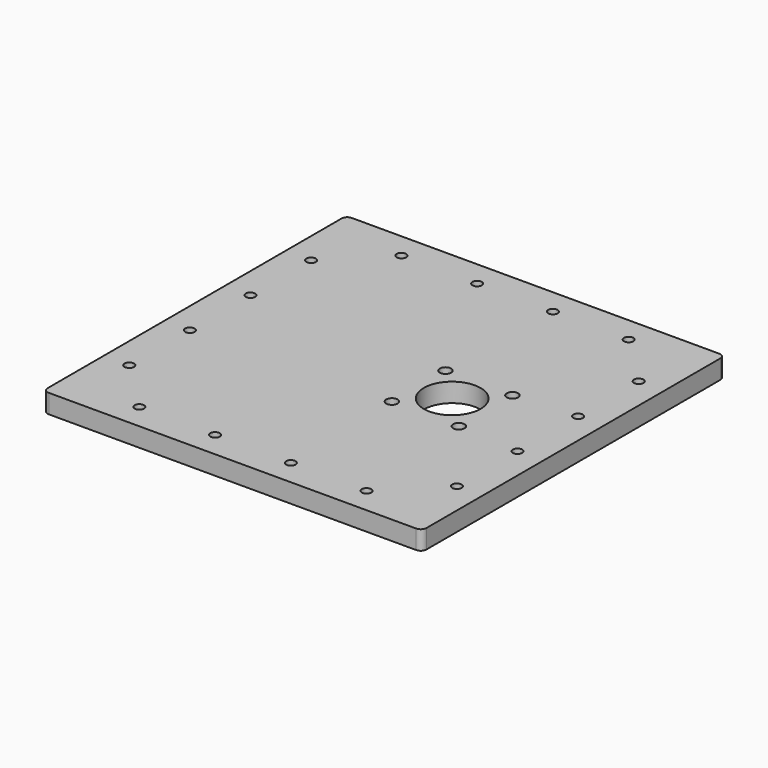
from build123d import *

# Parameters (mm, degrees)
SKETCH_W   = 200
SKETCH_H   = 200
SKETCH_R   = 15
SKETCH_R_2 = 3
SKETCH_R_3 = 2.5
PAD_DEPTH  = 10
FILLET_R   = 3


with BuildPart() as part:
    # Sketch → Pad (new body)
    with BuildSketch(Plane.XY):
        with Locations((100, 100)):
            Rectangle(SKETCH_W, SKETCH_H)
        with Locations((136, 100)):
            Circle(SKETCH_R, mode=Mode.SUBTRACT)
        with Locations((118.32233, 117.67767)):
            Circle(SKETCH_R_2, mode=Mode.SUBTRACT)
        with Locations((153.67767, 117.67767)):
            Circle(SKETCH_R_2, mode=Mode.SUBTRACT)
        with Locations((118.32233, 82.32233)):
            Circle(SKETCH_R_2, mode=Mode.SUBTRACT)
        with Locations((153.67767, 82.32233)):
            Circle(SKETCH_R_2, mode=Mode.SUBTRACT)
        with Locations((40, 13.5)):
            Circle(SKETCH_R_3, mode=Mode.SUBTRACT)
        with Locations((160, 13.5)):
            Circle(SKETCH_R_3, mode=Mode.SUBTRACT)
        with Locations((80, 13.5)):
            Circle(SKETCH_R_3, mode=Mode.SUBTRACT)
        with Locations((120, 13.5)):
            Circle(SKETCH_R_3, mode=Mode.SUBTRACT)
        with Locations((40, 186.5)):
            Circle(SKETCH_R_3, mode=Mode.SUBTRACT)
        with Locations((80, 186.5)):
            Circle(SKETCH_R_3, mode=Mode.SUBTRACT)
        with Locations((120, 186.5)):
            Circle(SKETCH_R_3, mode=Mode.SUBTRACT)
        with Locations((160, 186.5)):
            Circle(SKETCH_R_3, mode=Mode.SUBTRACT)
        with Locations((13.5, 160)):
            Circle(SKETCH_R_3, mode=Mode.SUBTRACT)
        with Locations((13.5, 120)):
            Circle(SKETCH_R_3, mode=Mode.SUBTRACT)
        with Locations((13.5, 80)):
            Circle(SKETCH_R_3, mode=Mode.SUBTRACT)
        with Locations((13.5, 40)):
            Circle(SKETCH_R_3, mode=Mode.SUBTRACT)
        with Locations((186.5, 160)):
            Circle(SKETCH_R_3, mode=Mode.SUBTRACT)
        with Locations((186.5, 120)):
            Circle(SKETCH_R_3, mode=Mode.SUBTRACT)
        with Locations((186.5, 80)):
            Circle(SKETCH_R_3, mode=Mode.SUBTRACT)
        with Locations((186.5, 40)):
            Circle(SKETCH_R_3, mode=Mode.SUBTRACT)
    extrude(amount=PAD_DEPTH)

    # Fillet
    fillet_edges = [part.edges().sort_by_distance(p)[0] for p in [
        (0, 0, 5),
        (200, 0, 5),
        (0, 200, 5),
        (200, 200, 5),
    ]]
    fillet(fillet_edges, radius=FILLET_R)


solid = part.part
